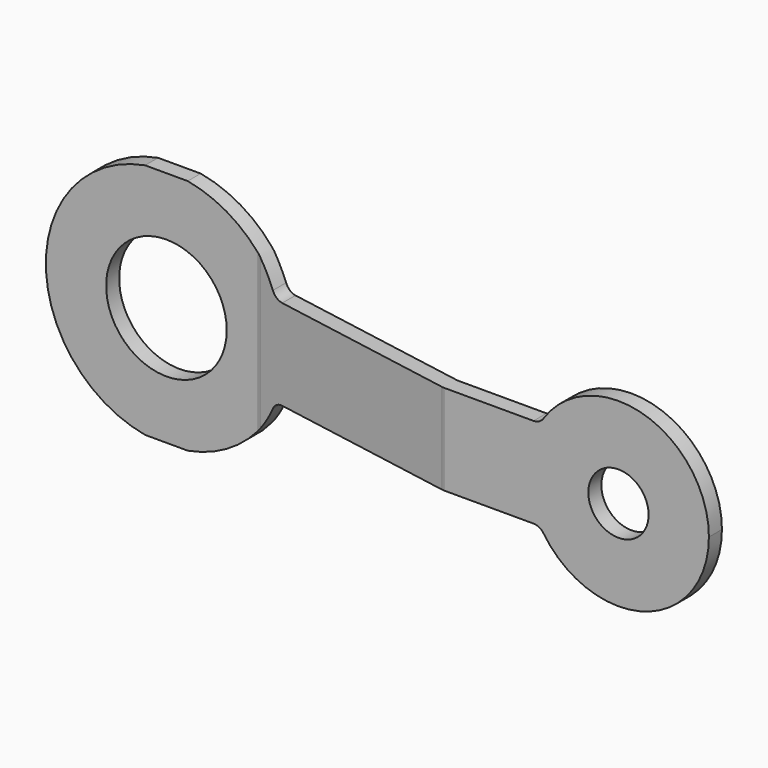
from build123d import *

# Parameters (mm, degrees)
F0_R     = 25.4
F0_R_2   = 12.7
F1_DEPTH = 25.4
F3_DEPTH = 50
F4_R     = 5.08


with BuildPart() as f1:
    # F0 (on Front) → F1 (new body)
    with BuildSketch(Plane.XZ):
        with BuildLine():
            ThreePointArc((47.09286, -19.05), (49.864603, -9.703677), (50.8, 0))
            ThreePointArc((50.8, 0), (49.864603, 9.703677), (47.09286, 19.05))
            ThreePointArc((47.09286, 19.05), (-50.8, 0), (47.09286, -19.05))
        make_face()
        Circle(F0_R, mode=Mode.SUBTRACT)
        with BuildLine():
            ThreePointArc((47.09286, 19.05), (49.864603, 9.703677), (50.8, 0))
            ThreePointArc((50.8, 0), (49.864603, -9.703677), (47.09286, -19.05))
            Line((47.09286, -19.05), (170.204432, -19.05))
            ThreePointArc((170.204432, -19.05), (165.1, 0), (170.204432, 19.05))
            Line((170.204432, 19.05), (47.09286, 19.05))
        make_face()
        with BuildLine():
            ThreePointArc((241.3, 0), (213.061006, 36.801774), (170.204432, 19.05))
            ThreePointArc((170.204432, 19.05), (165.1, 0), (170.204432, -19.05))
            ThreePointArc((170.204432, -19.05), (213.061006, -36.801774), (241.3, 0))
        make_face()
        with Locations((203.2, 0)):
            Circle(F0_R_2, mode=Mode.SUBTRACT)
    extrude(amount=F1_DEPTH)

    # F2 (on Top) → F3 (intersect, symmetric)
    with BuildSketch(Plane.XY):
        Polygon((39.602962, 0), (-68.855375, 0), (-68.855375, -6.858), (39.002964, -6.858), (129.294157, -22.778774), (255.28869, -22.778774), (255.28869, -15.920773), (129.894154, -15.920773), align=None)
    extrude(amount=F3_DEPTH, both=True, mode=Mode.INTERSECT)

    # F4
    f4_edges = [f1.edges().sort_by_distance(p)[0] for p in [
        (129.894154, -15.920773, 0),
        (39.602962, 0, 0),
        (39.002964, -6.858, 0),
        (129.294157, -22.778774, 0),
        (47.09286, -4.802569, 19.05),
        (170.204432, -19.349774, 19.05),
        (170.204432, -19.349774, -19.05),
        (47.09286, -4.802569, -19.05),
    ]]
    fillet(f4_edges, radius=F4_R)


solid = f1.part
